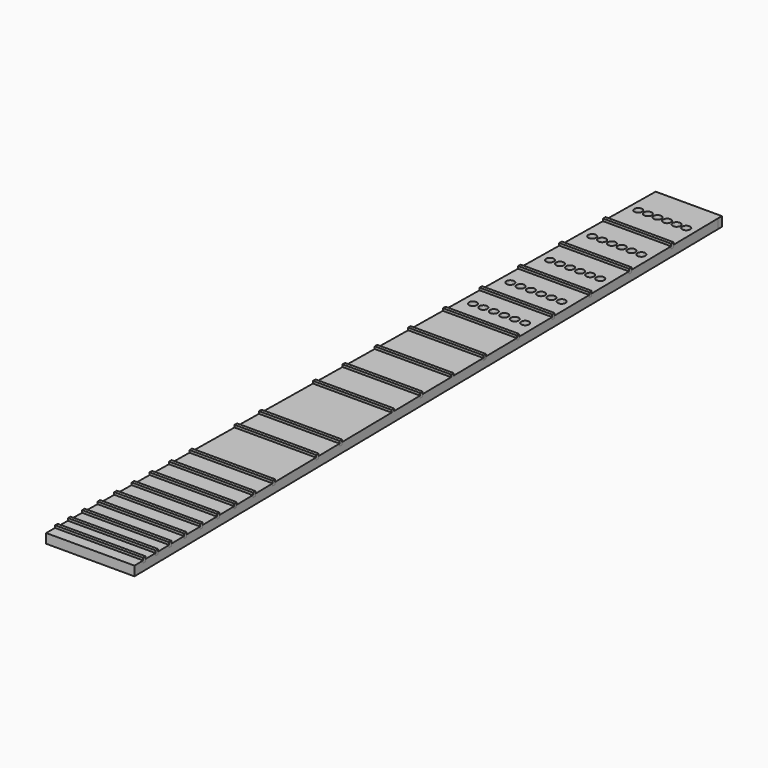
from build123d import *

# Parameters (mm, degrees)
F1_DEPTH = 6
F2_R     = 2.5
F3_DEPTH = 25
F4_DEPTH = 1.5


with BuildPart() as f1:
    # F0 (on Top) → F1 (new body)
    with BuildSketch(Plane.XY):
        Polygon((21, 471), (0, 471), (-21, 471), (-28, 0), (0, 0), (28, 0), align=None)
        Polygon((-21, 471), (0, 471), (21, 471), (21, 474), (-21, 474), align=None)
    extrude(amount=F1_DEPTH)

    # F2 (on face) → F3 (cut)
    with BuildSketch(Plane.XY.offset(6)):
        with Locations((15.191083, 453)):
            Circle(F2_R)
        with Locations((9.11465, 453)):
            Circle(F2_R)
        with Locations((3.038217, 453)):
            Circle(F2_R)
        with Locations((-3.038217, 453)):
            Circle(F2_R)
        with Locations((-9.11465, 453)):
            Circle(F2_R)
        with Locations((-15.191083, 453)):
            Circle(F2_R)
        with Locations((15.573248, 417)):
            Circle(F2_R)
        with Locations((9.343949, 417)):
            Circle(F2_R)
        with Locations((3.11465, 417)):
            Circle(F2_R)
        with Locations((-3.11465, 417)):
            Circle(F2_R)
        with Locations((-9.343949, 417)):
            Circle(F2_R)
        with Locations((-15.573248, 417)):
            Circle(F2_R)
        with Locations((15.923567, 384)):
            Circle(F2_R)
        with Locations((9.55414, 384)):
            Circle(F2_R)
        with Locations((3.184713, 384)):
            Circle(F2_R)
        with Locations((-3.184713, 384)):
            Circle(F2_R)
        with Locations((-9.55414, 384)):
            Circle(F2_R)
        with Locations((-15.923567, 384)):
            Circle(F2_R)
        with Locations((16.252654, 353)):
            Circle(F2_R)
        with Locations((9.751592, 353)):
            Circle(F2_R)
        with Locations((3.250531, 353)):
            Circle(F2_R)
        with Locations((-3.250531, 353)):
            Circle(F2_R)
        with Locations((-9.751592, 353)):
            Circle(F2_R)
        with Locations((-16.252654, 353)):
            Circle(F2_R)
        with Locations((16.563163, 323.75)):
            Circle(F2_R)
        with Locations((9.937898, 323.75)):
            Circle(F2_R)
        with Locations((3.312633, 323.75)):
            Circle(F2_R)
        with Locations((-3.312633, 323.75)):
            Circle(F2_R)
        with Locations((-9.937898, 323.75)):
            Circle(F2_R)
        with Locations((-16.563163, 323.75)):
            Circle(F2_R)
    extrude(amount=-F3_DEPTH, mode=Mode.SUBTRACT)


with BuildPart() as f4:
    # F2 (on face) → F4 (new body, symmetric)
    with BuildSketch(Plane.XY.offset(6)):
        Polygon((21.535032, 435), (-21.535032, 435), (-21.564756, 433), (21.564756, 433), align=None)
        Polygon((22.04034, 401), (-22.04034, 401), (-22.070064, 399), (22.070064, 399), align=None)
        Polygon((22.515924, 369), (-22.515924, 369), (-22.545648, 367), (22.545648, 367), align=None)
        Polygon((22.961783, 339), (-22.961783, 339), (-22.991507, 337), (22.991507, 337), align=None)
        Polygon((23.38535, 310.5), (-23.38535, 310.5), (-23.415074, 308.5), (23.415074, 308.5), align=None)
        Polygon((27.011677, 66.5), (26.981953, 68.5), (-26.981953, 68.5), (-27.011677, 66.5), align=None)
        Polygon((27.212314, 53), (27.18259, 55), (-27.18259, 55), (-27.212314, 53), align=None)
        Polygon((27.40552, 40), (27.375796, 42), (-27.375796, 42), (-27.40552, 40), align=None)
        Polygon((27.583864, 28), (27.55414, 30), (-27.55414, 30), (-27.583864, 28), align=None)
        Polygon((27.747346, 17), (27.717622, 19), (-27.717622, 19), (-27.747346, 17), align=None)
        Polygon((27.895966, 7), (27.866242, 9), (-27.866242, 9), (-27.895966, 7), align=None)
        Polygon((26.580679, 95.5), (26.550955, 97.5), (-26.550955, 97.5), (-26.580679, 95.5), align=None)
        Polygon((26.342887, 111.5), (26.313163, 113.5), (-26.313163, 113.5), (-26.342887, 111.5), align=None)
        Polygon((26.803609, 80.5), (26.773885, 82.5), (-26.773885, 82.5), (-26.803609, 80.5), align=None)
        Polygon((25.822718, 146.5), (25.792994, 148.5), (-25.792994, 148.5), (-25.822718, 146.5), align=None)
        Polygon((25.54034, 165.5), (25.510616, 167.5), (-25.510616, 167.5), (-25.54034, 165.5), align=None)
        Polygon((24.173036, 257.5), (-24.173036, 257.5), (-24.20276, 255.5), (24.20276, 255.5), align=None)
        Polygon((24.544586, 232.5), (-24.544586, 232.5), (-24.57431, 230.5), (24.57431, 230.5), align=None)
        Polygon((23.786624, 283.5), (-23.786624, 283.5), (-23.816348, 281.5), (23.816348, 281.5), align=None)
        Polygon((24.886412, 209.5), (-24.886412, 209.5), (-24.916136, 207.5), (24.886412, 207.5), align=None)
    extrude(amount=F4_DEPTH, both=True)


solid = Compound([f1.part, f4.part])
